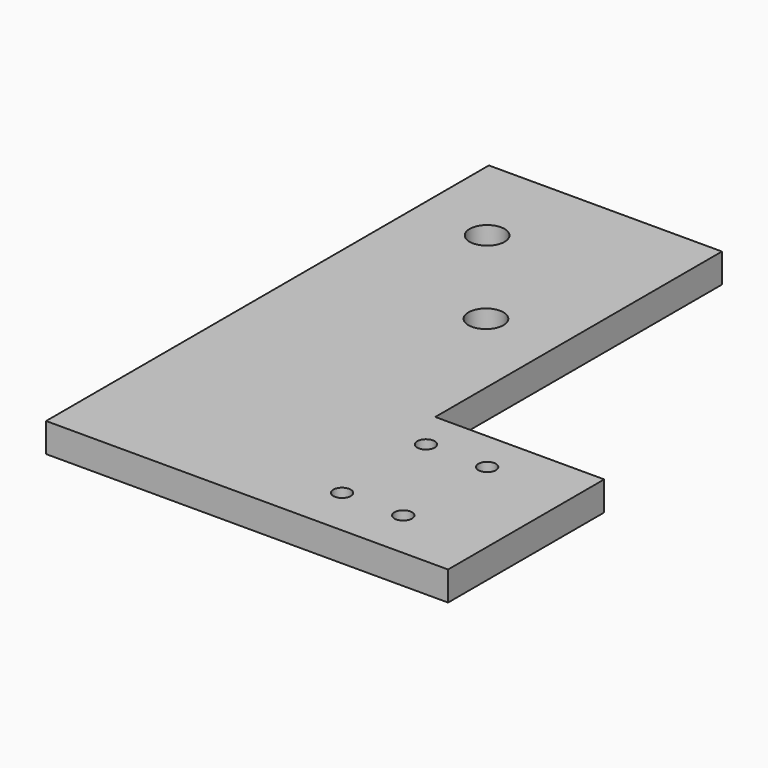
from build123d import *

# Parameters (mm, degrees)
F0_W     = 58
F0_H     = 67
F1_DEPTH = 10
F2_R     = 3
F2_R_2   = 6
F3_DEPTH = 25
F4_SIZE  = 3


with BuildPart() as f1:
    # F0 (on Top) → F1 (new body)
    with BuildSketch(Plane.XY):
        Polygon((-40, -95), (40, -95), (40, -28), (40, 95), (-40, 95), align=None)
        with Locations((69, -61.5)):
            Rectangle(F0_W, F0_H)
    extrude(amount=F1_DEPTH)

    # F2 (on face) → F3 (cut)
    with BuildSketch(Plane.XY.offset(10)):
        with Locations((48, -78)):
            Circle(F2_R)
        with Locations((48, -42)):
            Circle(F2_R)
        with Locations((69, -78)):
            Circle(F2_R)
        with Locations((69, -42)):
            Circle(F2_R)
        with Locations((-15, 63)):
            Circle(F2_R_2)
        with Locations((15, 25)):
            Circle(F2_R_2)
    extrude(amount=-F3_DEPTH, mode=Mode.SUBTRACT)

    # F4
    f4_edges = [f1.edges().sort_by_distance(p)[0] for p in [
        (66, -78, 0),
        (45, -78, 0),
        (45, -42, 0),
        (66, -42, 0),
    ]]
    chamfer(f4_edges, length=F4_SIZE)


solid = f1.part
